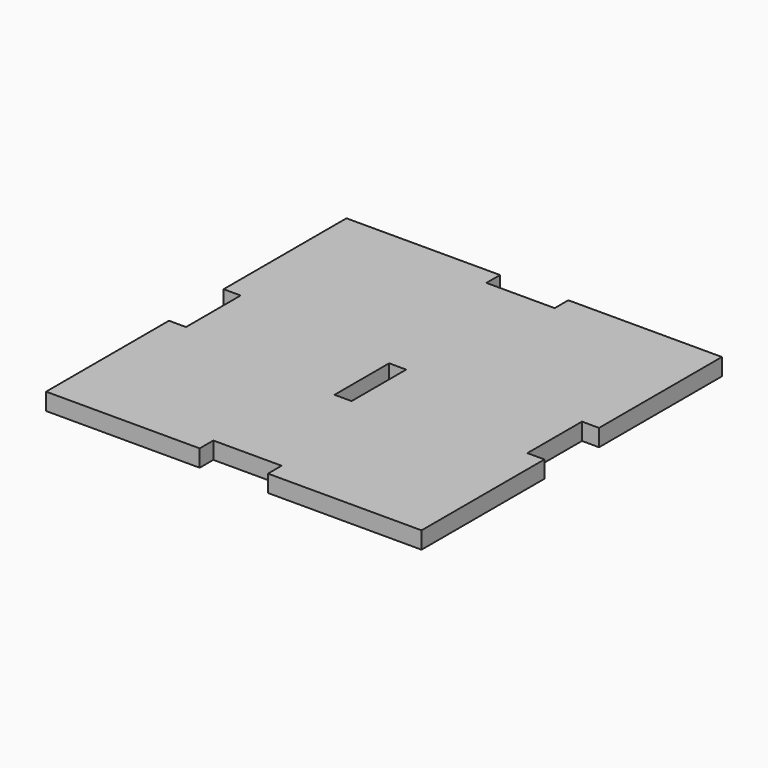
from build123d import *

# Parameters (mm, degrees)
F0_W     = 3.175
F0_H     = 12.7
F1_DEPTH = 3.175


with BuildPart() as f1:
    # F0 (on Top) → F1 (new body)
    with BuildSketch(Plane.XY):
        Polygon((34.925, 6.35), (34.925, 34.925), (6.35, 34.925), (6.35, 31.75), (-6.35, 31.75), (-6.35, 34.925), (-34.925, 34.925), (-34.925, 6.35), (-31.75, 6.35), (-31.75, -6.35), (-34.925, -6.35), (-34.925, -34.925), (-6.35, -34.925), (-6.35, -31.75), (6.35, -31.75), (6.35, -34.925), (34.925, -34.925), (34.925, -6.35), (31.75, -6.35), (31.75, 6.35), align=None)
        with Locations((0, -3.175)):
            Rectangle(F0_W, F0_H, mode=Mode.SUBTRACT)
    extrude(amount=F1_DEPTH)


solid = f1.part
